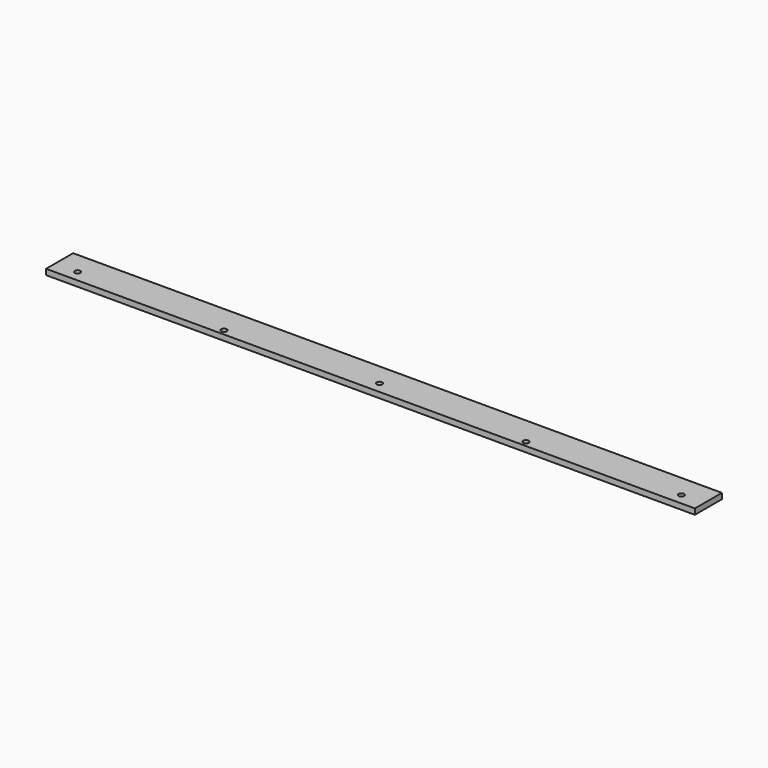
from build123d import *

# Parameters (mm, degrees)
F0_W     = 731.52
F0_H     = 38.1
F0_R     = 3.175
F1_DEPTH = 6.35


with BuildPart() as f1:
    # F0 (on Top) → F1 (new body)
    with BuildSketch(Plane.XY):
        Rectangle(F0_W, F0_H)
        with Locations((-170.18, -12.7)):
            Circle(F0_R, mode=Mode.SUBTRACT)
        with Locations((-340.36, -6.35)):
            Circle(F0_R, mode=Mode.SUBTRACT)
        with Locations((170.18, -12.7)):
            Circle(F0_R, mode=Mode.SUBTRACT)
        with Locations((0, -6.35)):
            Circle(F0_R, mode=Mode.SUBTRACT)
        with Locations((340.36, -6.35)):
            Circle(F0_R, mode=Mode.SUBTRACT)
    extrude(amount=F1_DEPTH)


solid = f1.part
